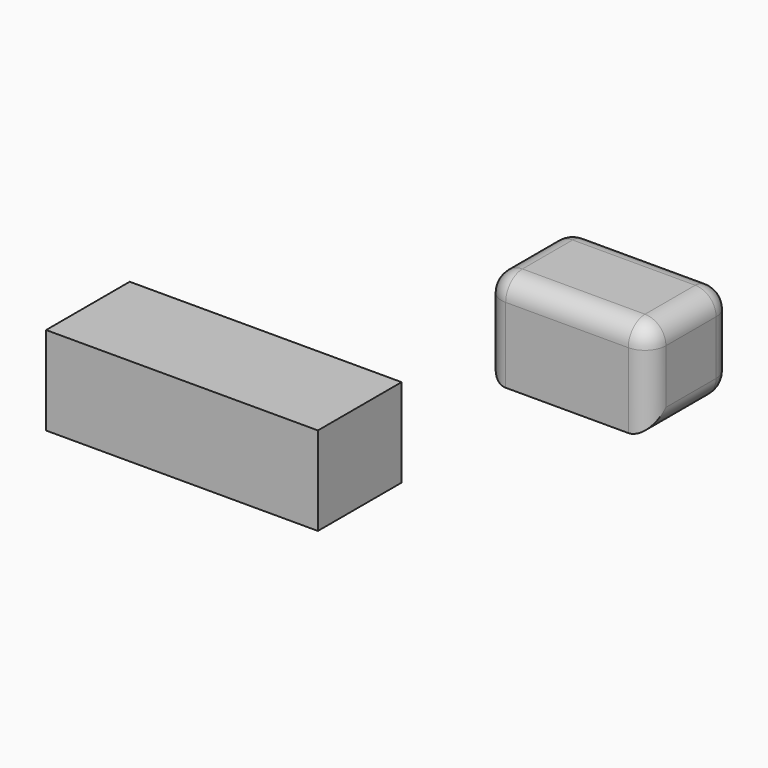
from build123d import *

# Parameters (mm, degrees)
F0_W     = 66.039116
F0_H     = 21.501114
F1_DEPTH = 25.4
F2_R     = 5.08


with BuildPart() as f1:
    # F0 (on Front) → F1 (new body)
    with BuildSketch(Plane.XZ):
        Rectangle(F0_W, F0_H)
        Polygon((73.564515, 58.052998), (73.564515, 39.100903), (73.564515, 34.708936), (113.495141, 34.708936), (113.495141, 58.052998), align=None)
    extrude(amount=F1_DEPTH)

    # F2
    f2_edges = [f1.edges().sort_by_distance(p)[0] for p in [
        (113.495141, 0, 46.380967),
        (113.495141, -25.4, 46.380967),
        (113.495141, -12.7, 34.708936),
        (113.495141, -12.7, 58.052998),
        (93.529828, 0, 58.052998),
        (93.529828, 0, 34.708936),
        (73.564515, 0, 46.380967),
        (73.564515, -12.7, 58.052998),
        (73.564515, -25.4, 46.380967),
        (73.564515, -12.7, 34.708936),
        (93.529828, -25.4, 58.052998),
    ]]
    fillet(f2_edges, radius=F2_R)


solid = f1.part
